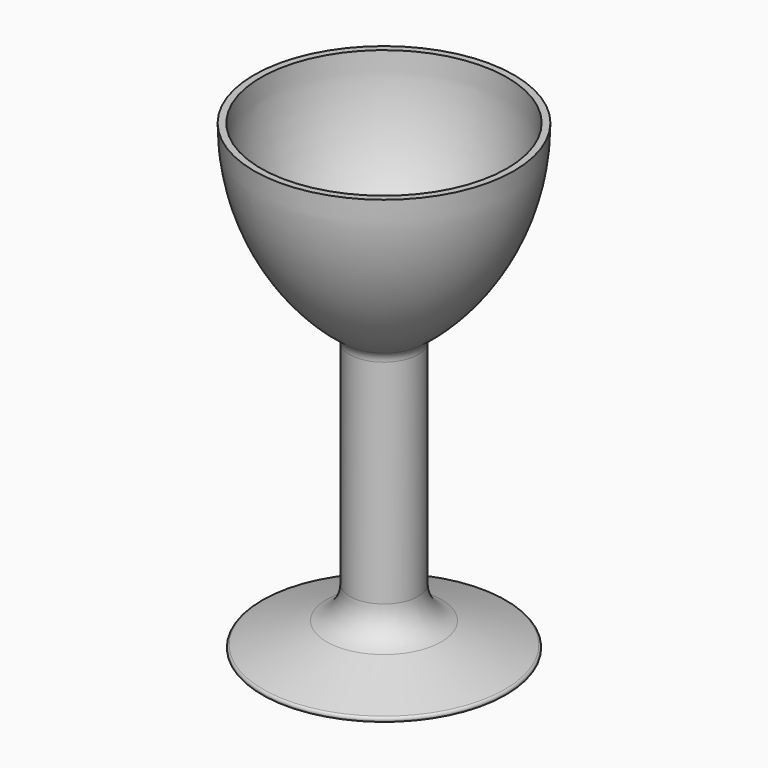
from build123d import *


with BuildPart() as f1:
    # F0 (on Front) → F1 (revolve)
    with BuildSketch(Plane.XZ):
        with BuildLine():
            Line((0, 40.816609), (0, 0))
            Line((0, 0), (17.611366, 0))
            ThreePointArc((17.611366, 0), (17.993982, 0.325532), (17.733942, 0.755353))
            Line((17.733942, 0.755353), (8.418861, 3.86038))
            ThreePointArc((8.418861, 3.86038), (5.943789, 5.680245), (5, 8.603796))
            Line((5, 8.603796), (5, 39.806811))
            ThreePointArc((5, 39.806811), (5.208859, 40.696651), (5.791815, 41.40064))
            ThreePointArc((5.791815, 41.40064), (15.556327, 53.192449), (19.054722, 68.097269))
            Line((19.054722, 68.097269), (18.054722, 68.097269))
            ThreePointArc((18.054722, 68.097269), (14.660757, 53.637369), (5.187723, 42.197554))
            Line((5.187723, 42.197554), (0, 40.816609))
        make_face()
    revolve(axis=Axis((0, 0, 20.408305), (0, 0, 1)))


solid = f1.part
